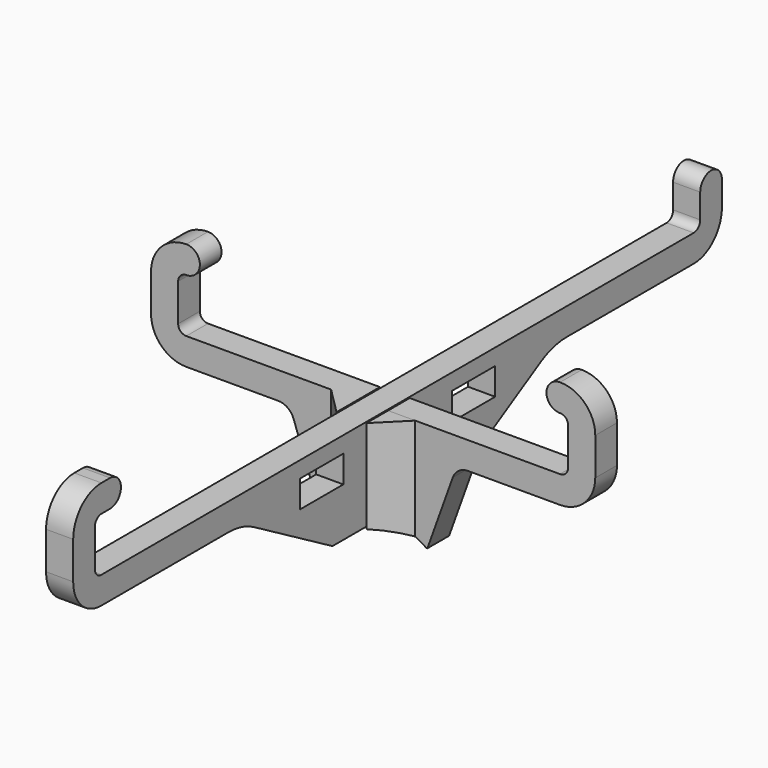
from build123d import *

# Parameters (mm, degrees)
SKETCH_W     = 10
SKETCH_H     = 5
PAD_DEPTH    = 2.5
PAD001_DEPTH = 2.5
PAD002_DEPTH = 20
POCKET_DEPTH = 10


with BuildPart() as vertical:
    # Sketch → Pad (new body, symmetric)
    with BuildSketch(Plane.YZ):
        with BuildLine():
            Line((74.75, 18.499999), (74.75, 23.000006))
            ThreePointArc((74.75, 23.000006), (72.249997, 25.500006), (69.75, 23))
            Line((69.75, 18.500011), (69.75, 23))
            ThreePointArc((68.25, 17), (69.310664, 17.439344), (69.75, 18.500011))
            Line((-68.25, 17), (68.25, 17))
            ThreePointArc((-69.75, 18.500011), (-69.310664, 17.439344), (-68.25, 17))
            Line((-69.75, 25.399989), (-69.75, 18.500011))
            ThreePointArc((-68.25, 26.9), (-69.310664, 26.460656), (-69.75, 25.399989))
            Line((-68.25, 26.9), (-66.25, 26.9))
            ThreePointArc((-66.25, 26.9), (-63.75, 29.400001), (-66.250002, 31.9))
            Line((-66.250002, 31.9), (-68.249999, 31.9))
            ThreePointArc((-68.249999, 31.9), (-72.846194, 29.996195), (-74.75, 25.400001))
            Line((-74.75, 18.500011), (-74.75, 25.400001))
            ThreePointArc((-74.75, 18.500011), (-72.846198, 13.90381), (-68.25, 12))
            Line((-68.25, 12), (-38.96077, 12))
            ThreePointArc((-33, 10.392302), (-35.873884, 11.59102), (-38.96077, 12))
            Line((-15, 0), (-33, 10.392302))
            Line((-15, 0), (-2.75, 0))
            Line((-2.75, 0), (-2.75, 8.7))
            Line((-2.75, 8.7), (2.75, 8.7))
            Line((2.75, 8.7), (2.75, 0))
            Line((2.75, 0), (15, 0))
            Line((15, 0), (33, 10.392302))
            ThreePointArc((38.96077, 12), (35.873884, 11.59102), (33, 10.392302))
            Line((38.96077, 12), (68.25, 12))
            ThreePointArc((68.25, 12), (72.846194, 13.903806), (74.75, 18.499999))
        make_face()
        with Locations((-17.5, 11.5)):
            Rectangle(SKETCH_W, SKETCH_H, mode=Mode.SUBTRACT)
        with Locations((17.5, 11.5)):
            Rectangle(SKETCH_W, SKETCH_H, mode=Mode.SUBTRACT)
    extrude(amount=PAD_DEPTH, both=True)


with BuildPart() as fusion:
    # Sketch001 → Pad001 (new body, symmetric)
    with BuildSketch(Plane.XZ):
        with BuildLine():
            Line((17.5, 11.999987), (34.450006, 12))
            ThreePointArc((34.450006, 12), (39.046196, 13.903808), (40.95, 18.5))
            Line((40.95, 25.399974), (40.95, 18.5))
            ThreePointArc((40.95, 25.399974), (39.046194, 29.996169), (34.45, 31.899974))
            ThreePointArc((34.45, 31.899974), (31.95, 29.399974), (34.45, 26.899974))
            ThreePointArc((35.95, 25.399975), (35.51066, 26.460635), (34.45, 26.899974))
            Line((35.95, 18.5), (35.95, 25.399975))
            ThreePointArc((34.45, 17), (35.51066, 17.43934), (35.95, 18.5))
            Line((2.75, 17), (34.45, 17))
            Line((2.75, 8.3), (2.75, 17))
            Line((-2.75, 8.3), (2.75, 8.3))
            Line((-2.75, 16.999987), (-2.75, 8.3))
            Line((-34.45, 16.999987), (-2.75, 16.999987))
            ThreePointArc((-35.95, 18.5), (-35.510665, 17.439332), (-34.45, 16.999987))
            Line((-35.95, 18.5), (-35.95, 25.399975))
            ThreePointArc((-34.45, 26.899987), (-35.510665, 26.460643), (-35.95, 25.399975))
            ThreePointArc((-34.45, 26.899987), (-31.95, 29.399987), (-34.45, 31.899987))
            ThreePointArc((-34.45, 31.899987), (-39.046199, 29.996177), (-40.95, 25.399975))
            Line((-40.95, 25.399975), (-40.95, 18.5))
            ThreePointArc((-40.95, 18.5), (-39.046199, 13.903798), (-34.450001, 11.999987))
            Line((-34.450001, 11.999987), (-17.5, 11.999987))
            ThreePointArc((-14.676752, 10.014518), (-15.774253, 11.453922), (-17.5, 11.999987))
            Line((-14.676752, 10.014518), (-10, -3))
            Line((-10, -3), (10, -3))
            Line((10, -3), (14.676755, 10.014519))
            ThreePointArc((17.5, 11.999987), (15.774254, 11.453922), (14.676755, 10.014519))
        make_face()
    extrude(amount=PAD001_DEPTH, both=True)

    # Sketch002 → Pad002 (new body)
    with BuildSketch(Plane(origin=(0, 0, 16.999987), x_dir=(-1, 0, 0), z_dir=(0, 0, 1))):
        Polygon((-7.75, 2.5), (-2.75, 7.5), (-2.75, 2.5), align=None)
        Polygon((2.75, 7.5), (2.75, 2.5), (7.75, 2.5), align=None)
    extrude(amount=-PAD002_DEPTH)

    # Sketch003 → Pocket (cut)
    with BuildSketch(Plane(origin=(0, 2.5, 0), x_dir=(1, 0, 0), z_dir=(0, 1, 0))):
        with BuildLine():
            ThreePointArc((-10, 3.138593), (0, 0), (10, 3.138593))
            Line((-10, 3.138593), (10, 3.138593))
        make_face()
    extrude(amount=-POCKET_DEPTH, mode=Mode.SUBTRACT)

    # Fusion: union Vertical
    add(vertical.part)


solid = fusion.part
